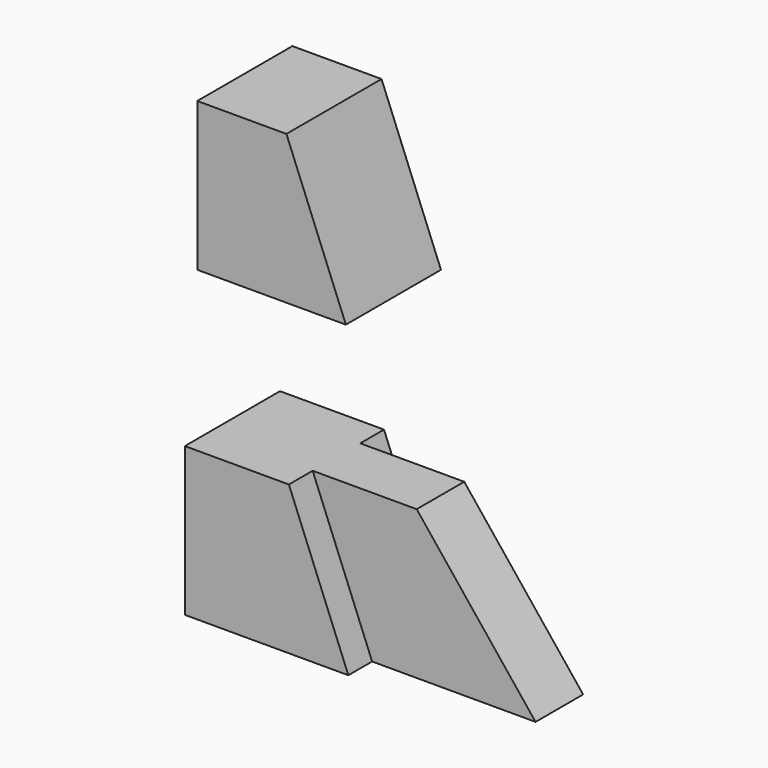
from build123d import *

# Parameters (mm, degrees)
F1_DEPTH = 25.4
F3_DEPTH = 25.4
F5_DEPTH = 6.35
F7_DEPTH = 6.35


with BuildPart() as f1:
    # F0 (on Front) → F1 (new body)
    with BuildSketch(Plane.XZ):
        Polygon((-43.08386, 47.312498), (-62.13386, 47.312498), (-62.13386, 15.562498), (-30.38386, 15.562498), align=None)
    extrude(amount=F1_DEPTH)


with BuildPart() as f3:
    # F2 (on Front) → F3 (new body)
    with BuildSketch(Plane.XZ):
        Polygon((-20.331509, -18.449531), (-64.781509, -18.449531), (-64.781509, -50.199531), (5.068491, -50.199531), align=None)
    extrude(amount=F3_DEPTH)

    # F4 (on face) → F5 (cut)
    with BuildSketch(Plane.XZ.offset(25.4)):
        Polygon((-20.331509, -18.449531), (-42.556509, -18.449531), (-29.856509, -50.199531), (5.068491, -50.199531), align=None)
    extrude(amount=-F5_DEPTH, mode=Mode.SUBTRACT)

    # F6 (on face) → F7 (cut)
    with BuildSketch(Plane(origin=(0, 0, 0), x_dir=(-1, 0, 0), z_dir=(0, 1, 0))):
        Polygon((29.856509, -50.199531), (42.556509, -18.449531), (20.331509, -18.449531), (-5.068491, -50.199531), align=None)
    extrude(amount=-F7_DEPTH, mode=Mode.SUBTRACT)


solid = Compound([f1.part, f3.part])
